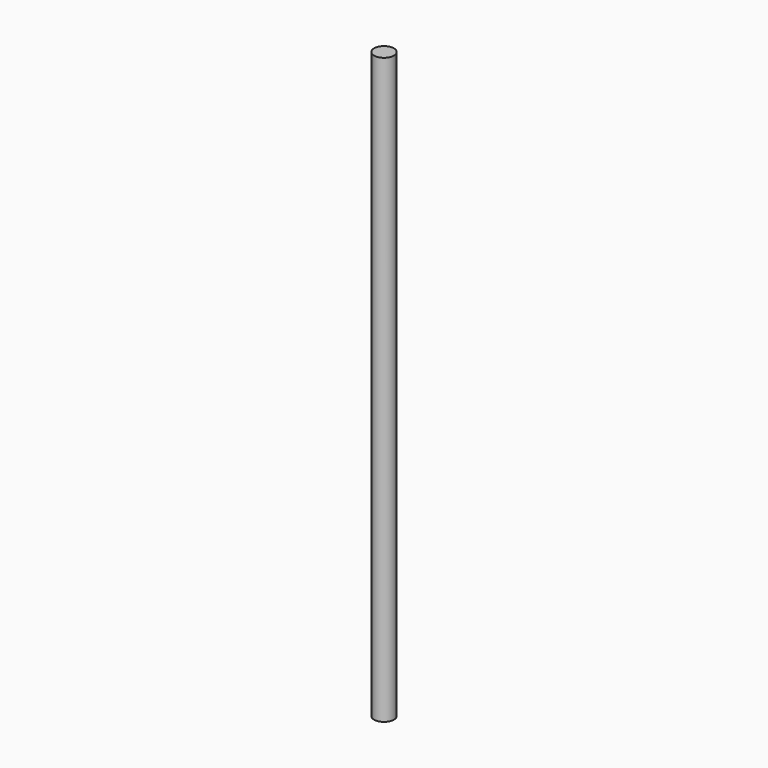
from build123d import *

# Parameters (mm, degrees)
SKETCH_R  = 4
PAD_DEPTH = 235


with BuildPart() as part:
    # Sketch → Pad (new body)
    with BuildSketch(Plane.XY):
        Circle(SKETCH_R)
    extrude(amount=PAD_DEPTH)


solid = part.part
